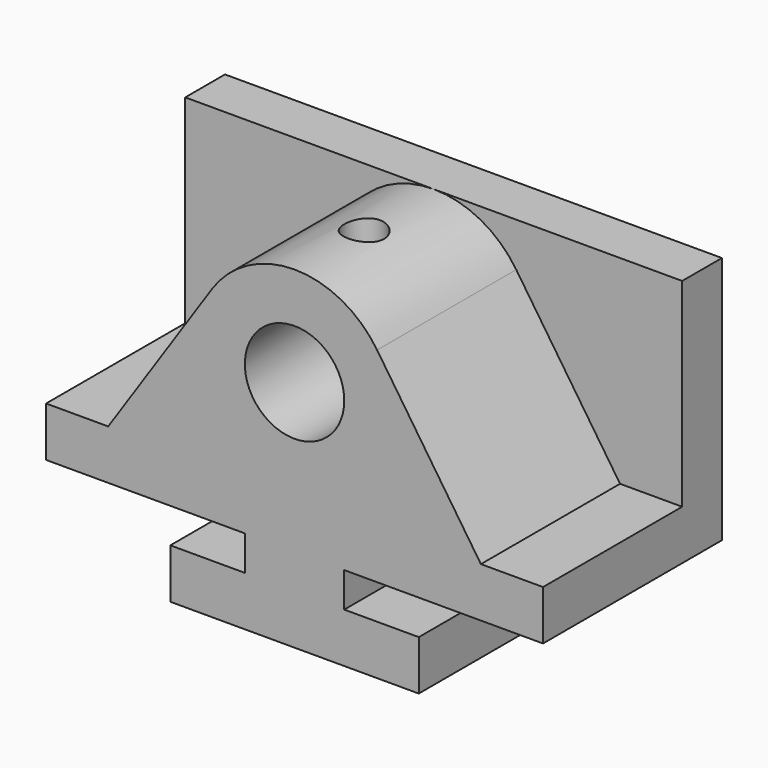
from build123d import *

# Parameters (mm, degrees)
F1_DEPTH = 127
F3_DEPTH = 57.15
F4_R     = 12.7
F5_DEPTH = 44.45
F6_R     = 5.08
F7_DEPTH = 13.7612578348


with BuildPart() as f1:
    # F0 (on Right) → F1 (new body)
    with BuildSketch(Plane.YZ):
        Polygon((-57.15, 0), (0, 0), (0, 63.5), (-12.7, 63.5), (-12.7, 12.7), (-57.15, 12.7), align=None)
    extrude(amount=-F1_DEPTH)

    # F2 (on face) → F3 (join)
    with BuildSketch(Plane.XZ.offset(57.15)):
        Polygon((-50.8, 0), (-63.5, 0), (-76.2, 0), (-76.2, -8.89), (-95.25, -8.89), (-95.25, -21.59), (-31.75, -21.59), (-31.75, -8.89), (-50.8, -8.89), align=None)
    extrude(amount=-F3_DEPTH)

    # F4 (on face) → F5 (join, through all)
    with BuildSketch(Plane.XZ.offset(12.7)):
        with BuildLine():
            Line((-111.125, 12.7), (-15.875, 12.7))
            Line((-15.875, 12.7), (-42.4065743945, 52.2501730104))
            ThreePointArc((-42.4065743945, 52.2501730104), (-63.5, 63.5), (-84.5934256055, 52.2501730104))
            Line((-84.5934256055, 52.2501730104), (-111.125, 12.7))
        make_face()
        with Locations((-63.5, 38.1)):
            Circle(F4_R, mode=Mode.SUBTRACT)
    extrude(amount=F5_DEPTH)

    # F6 (on face) → F7 (cut, through all)
    with BuildSketch(Plane.XY.offset(63.5)):
        with Locations((-63.5, -34.925)):
            Circle(F6_R)
    extrude(amount=-F7_DEPTH, mode=Mode.SUBTRACT)


solid = f1.part
